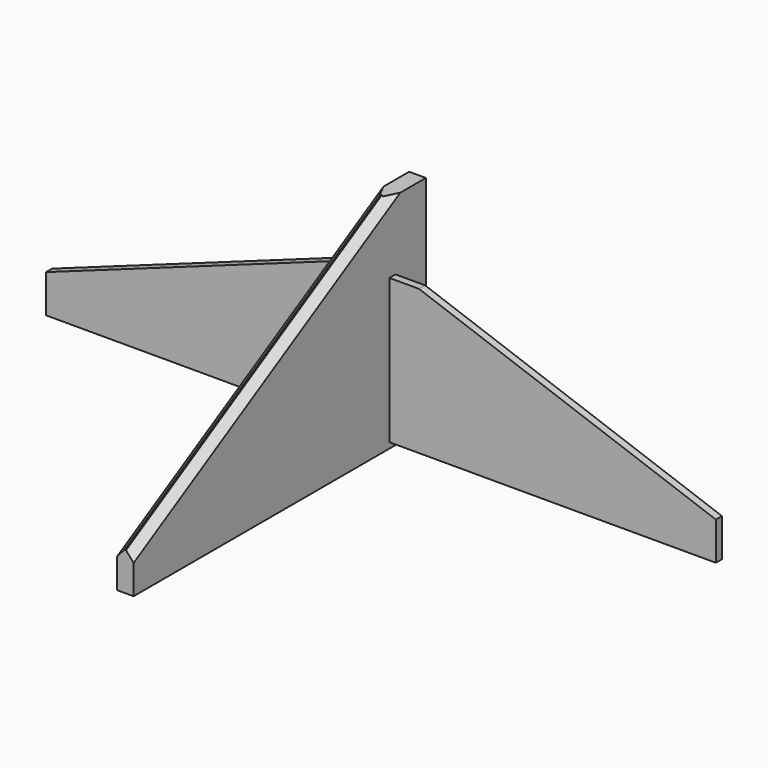
from build123d import *

# Parameters (mm, degrees)
PAD002_DEPTH    = 1.1
PAD003_DEPTH    = 1
CHAMFER001_SIZE = 1


with BuildPart() as part:
    # Sketch008 → Pad002 (new body, symmetric)
    with BuildSketch(Plane.YZ):
        Polygon((-48, -68.754484), (-6, -44.754484), (-6, -44.875355), (0, -44.875355), (0, -73.754484), (-48, -73.754484), align=None)
    extrude(amount=PAD002_DEPTH, both=True)

    # Sketch009 → Pad003 (join)
    with BuildSketch(Plane(origin=(0, -5, 0), x_dir=(0, 0, -1), z_dir=(0, -1, 0))):
        Polygon((54, 5), (68, 44), (73, 44), (73, -44), (68, -44), (54, -5), align=None)
    extrude(amount=PAD003_DEPTH)

    # Chamfer001
    chamfer001_edges = [part.edges().sort_by_distance(p)[0] for p in [
        (-1.1, -27, -56.754484),
        (1.1, -27, -56.754484),
    ]]
    chamfer(chamfer001_edges, length=CHAMFER001_SIZE)


with BuildPart() as part_1:
    # Body001 placement: moved
    add(part.part.moved(Location((0, 0, 19))))


solid = part_1.part
